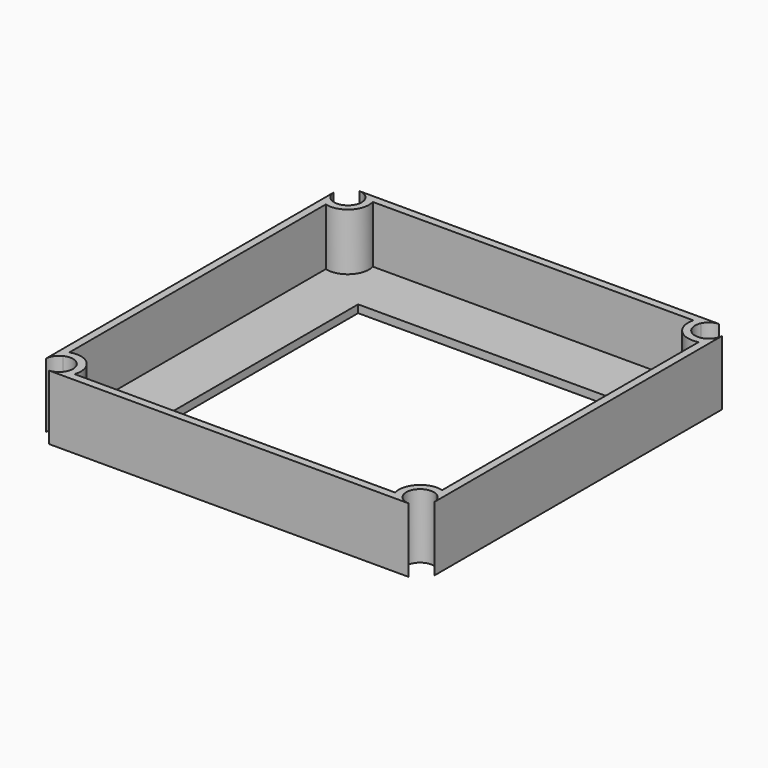
from build123d import *

# Parameters (mm, degrees)
F1_DEPTH = 25
F0_W     = 100
F0_H     = 100
F2_DEPTH = 3


with BuildPart() as f1:
    # F0 (on Top) → F1 (new body)
    with BuildSketch(Plane.XY):
        with BuildLine():
            ThreePointArc((-72, 64.9100722949), (-74.1114641858, 66.7425764269), (-75, 69.3933982822))
            Line((-75, 69.3933982822), (-75, -69.3933982822))
            ThreePointArc((-75, -69.3933982822), (-74.1114641858, -66.7425764269), (-72, -64.9100722949))
            Line((-72, -64.9100722949), (-72, -61.9100722949))
            Line((-72, -61.9100722949), (-72, 61.9100722949))
            Line((-72, 61.9100722949), (-72, 64.9100722949))
        make_face()
        with BuildLine():
            Line((-61.9100722949, 72), (-64.9100722949, 72))
            ThreePointArc((-64.9100722949, 72), (-65.9405713869, 65.9405713869), (-72, 64.9100722949))
            Line((-72, 64.9100722949), (-72, 61.9100722949))
            ThreePointArc((-72, 61.9100722949), (-64.0021028341, 64.0021028341), (-61.9100722949, 72))
        make_face()
        with BuildLine():
            Line((69.3933982822, 75), (-69.3933982822, 75))
            ThreePointArc((-69.3933982822, 75), (-66.7425764269, 74.1114641858), (-64.9100722949, 72))
            Line((-64.9100722949, 72), (-61.9100722949, 72))
            Line((-61.9100722949, 72), (61.9100722949, 72))
            Line((61.9100722949, 72), (64.9100722949, 72))
            ThreePointArc((64.9100722949, 72), (66.7425764269, 74.1114641858), (69.3933982822, 75))
        make_face()
        with BuildLine():
            ThreePointArc((72, 64.9100722949), (65.9405713869, 65.9405713869), (64.9100722949, 72))
            Line((64.9100722949, 72), (61.9100722949, 72))
            ThreePointArc((61.9100722949, 72), (64.0021028341, 64.0021028341), (72, 61.9100722949))
            Line((72, 61.9100722949), (72, 64.9100722949))
        make_face()
        with BuildLine():
            ThreePointArc((75, 69.3933982822), (74.1114641858, 66.7425764269), (72, 64.9100722949))
            Line((72, 64.9100722949), (72, 61.9100722949))
            Line((72, 61.9100722949), (72, -61.9100722949))
            Line((72, -61.9100722949), (72, -64.9100722949))
            ThreePointArc((72, -64.9100722949), (74.1114641858, -66.7425764269), (75, -69.3933982822))
            Line((75, -69.3933982822), (75, 69.3933982822))
        make_face()
        with BuildLine():
            Line((72, -64.9100722949), (72, -61.9100722949))
            ThreePointArc((72, -61.9100722949), (64.0021028341, -64.0021028341), (61.9100722949, -72))
            Line((61.9100722949, -72), (64.9100722949, -72))
            ThreePointArc((64.9100722949, -72), (65.9405713869, -65.9405713869), (72, -64.9100722949))
        make_face()
        with BuildLine():
            Line((-61.9100722949, -72), (-64.9100722949, -72))
            ThreePointArc((-64.9100722949, -72), (-66.7425764269, -74.1114641858), (-69.3933982822, -75))
            Line((-69.3933982822, -75), (69.3933982822, -75))
            ThreePointArc((69.3933982822, -75), (66.7425764269, -74.1114641858), (64.9100722949, -72))
            Line((64.9100722949, -72), (61.9100722949, -72))
            Line((61.9100722949, -72), (-61.9100722949, -72))
        make_face()
        with BuildLine():
            Line((-72, -61.9100722949), (-72, -64.9100722949))
            ThreePointArc((-72, -64.9100722949), (-65.9405713869, -65.9405713869), (-64.9100722949, -72))
            Line((-64.9100722949, -72), (-61.9100722949, -72))
            ThreePointArc((-61.9100722949, -72), (-63.8192510434, -63.8192510434), (-72, -61.9100722949))
        make_face()
    extrude(amount=F1_DEPTH)

    # F0 (on Top) → F2 (join)
    with BuildSketch(Plane.XY):
        with BuildLine():
            Line((61.9100722949, 72), (-61.9100722949, 72))
            ThreePointArc((-61.9100722949, 72), (-64.0021028341, 64.0021028341), (-72, 61.9100722949))
            Line((-72, 61.9100722949), (-72, -61.9100722949))
            ThreePointArc((-72, -61.9100722949), (-63.8192510434, -63.8192510434), (-61.9100722949, -72))
            Line((-61.9100722949, -72), (61.9100722949, -72))
            ThreePointArc((61.9100722949, -72), (64.0021028341, -64.0021028341), (72, -61.9100722949))
            Line((72, -61.9100722949), (72, 61.9100722949))
            ThreePointArc((72, 61.9100722949), (64.0021028341, 64.0021028341), (61.9100722949, 72))
        make_face()
        Rectangle(F0_W, F0_H, mode=Mode.SUBTRACT)
    extrude(amount=F2_DEPTH)


solid = f1.part
